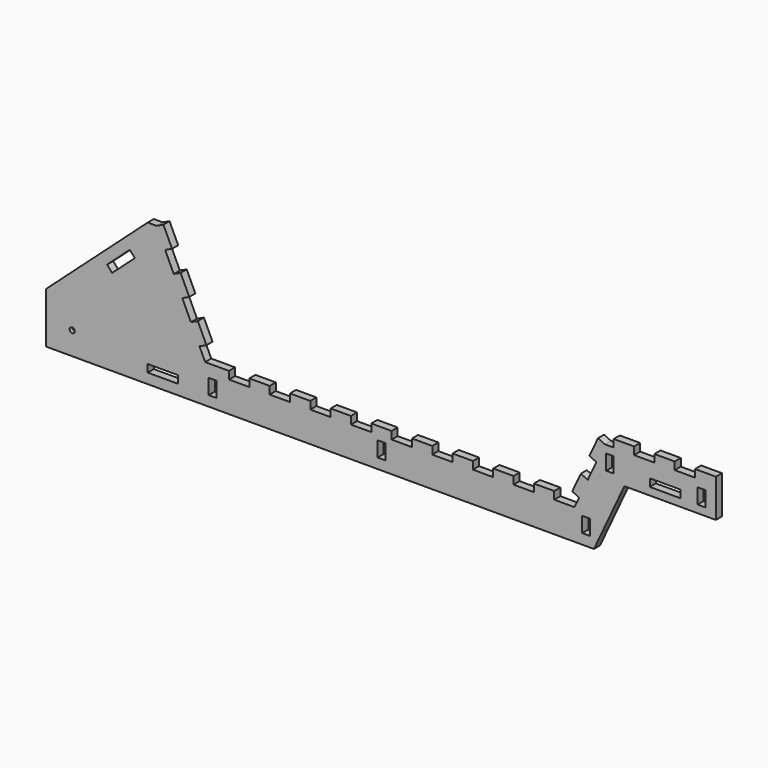
from build123d import *

# Parameters (mm, degrees)
F0_W     = 76.2
F0_H     = 19.05
F0_W_2   = 19.05
F0_H_2   = 38.1
F0_R     = 17.4625
F0_W_3   = 20.17304
F1_DEPTH = 19.05
F0_R_2   = 6.35
F2_DEPTH = 9.525


with BuildPart() as f1:
    # F0 (on Front) → F1 (new body)
    with BuildSketch(Plane.XZ):
        Polygon((-489.430563, 76.2), (-540.230563, 76.2), (-540.230563, 95.25), (-591.030563, 95.25), (-599.913724, 95.25), (-613.971884, 125.397822), (-596.706721, 133.4487), (-618.175729, 179.489136), (-635.440892, 171.438258), (-656.9099, 217.478693), (-639.644736, 225.529571), (-661.113744, 271.570007), (-678.378907, 263.519129), (-699.847915, 309.559564), (-682.582752, 317.610442), (-704.051759, 363.650878), (-721.316923, 355.6), (-743.430563, 355.6), (-997.430563, 127), (-997.430563, 0), (-591.030563, 0), (342.419437, 0), (371.914191, 0), (392.43009, 43.996488), (447.893046, 162.937181), (502.200551, 162.937181), (676.493046, 162.937181), (676.493046, 239.137181), (676.493046, 258.187181), (624.570006, 258.187181), (624.570006, 239.137181), (573.770006, 239.137181), (573.770006, 258.187181), (522.970006, 258.187181), (522.970006, 239.137181), (472.170006, 239.137181), (472.170006, 258.187181), (421.370006, 258.187181), (421.370006, 239.137181), (399.256366, 239.137181), (381.991203, 247.188059), (360.522195, 201.147623), (377.787358, 193.096745), (356.318351, 147.05631), (339.053221, 155.107172), (317.579072, 109.055711), (334.844236, 101.004833), (323.369437, 76.2), (272.569437, 76.2), (272.569437, 95.25), (221.769437, 95.25), (221.769437, 76.2), (170.969437, 76.2), (170.969437, 95.25), (120.169437, 95.25), (120.169437, 76.2), (69.369437, 76.2), (69.369437, 95.25), (18.569437, 95.25), (18.569437, 76.2), (-32.230563, 76.2), (-32.230563, 95.25), (-83.030563, 95.25), (-83.030563, 76.2), (-133.830563, 76.2), (-133.830563, 95.25), (-184.630563, 95.25), (-184.630563, 76.2), (-235.430563, 76.2), (-235.430563, 95.25), (-286.230563, 95.25), (-286.230563, 76.2), (-337.030563, 76.2), (-337.030563, 95.25), (-387.830563, 95.25), (-387.830563, 76.2), (-438.630563, 76.2), (-438.630563, 95.25), (-489.430563, 95.25), align=None)
        with Locations((-705.330563, 34.925)):
            Rectangle(F0_W, F0_H, mode=Mode.SUBTRACT)
        with Locations((-581.505563, 44.45)):
            Rectangle(F0_W_2, F0_H_2, mode=Mode.SUBTRACT)
        with Locations((-932.085752, 57.15)):
            Circle(F0_R, mode=Mode.SUBTRACT)
        with Locations((-159.243268, 44.45)):
            Rectangle(F0_W_2, F0_H_2, mode=Mode.SUBTRACT)
        with Locations((351.944437, 44.45)):
            Rectangle(F0_W_2, F0_H_2, mode=Mode.SUBTRACT)
        Polygon((-832.288567, 215.839342), (-845.030563, 230.0007), (-788.385133, 280.968682), (-775.643137, 266.807325), align=None, mode=Mode.SUBTRACT)
        with Locations((411.845006, 201.037181)):
            Rectangle(F0_W_2, F0_H_2, mode=Mode.SUBTRACT)
        with Locations((549.493046, 191.512181)):
            Rectangle(F0_W, F0_H, mode=Mode.SUBTRACT)
        with Locations((641.006526, 201.037181)):
            Rectangle(F0_W_3, F0_H_2, mode=Mode.SUBTRACT)
    extrude(amount=-F1_DEPTH)

    # F0 (on Front) → F2 (join)
    with BuildSketch(Plane.XZ):
        with Locations((-932.085752, 57.15)):
            Circle(F0_R)
        with Locations((-932.085752, 57.15)):
            Circle(F0_R_2, mode=Mode.SUBTRACT)
    extrude(amount=-F2_DEPTH)


solid = f1.part
